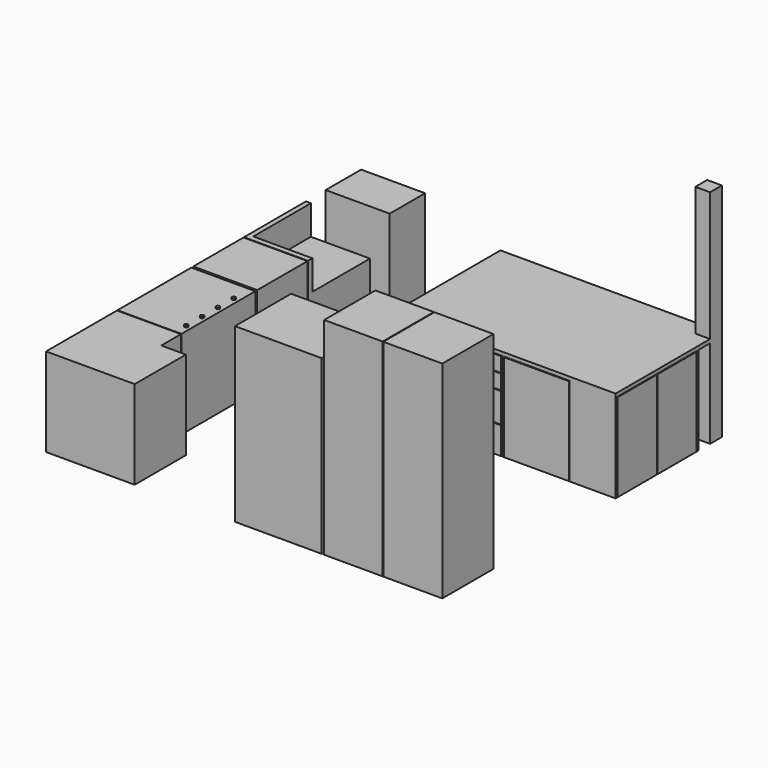
from build123d import *

# Parameters (mm, degrees)
F0_W      = 152.4
F0_H      = 152.4
F1_DEPTH  = 2286
F4_DEPTH  = 38.1
F7_DEPTH  = 914.4
F9_DEPTH  = 914.4
F11_DEPTH = 914.4
F13_DEPTH = 914.4
F14_W     = 19.05
F14_H     = 590.55
F15_DEPTH = 914.4
F16_W     = 19.05
F16_H     = 457.2
F17_DEPTH = 914.4
F18_W     = 508
F18_H     = 908.05
F19_DEPTH = 19.05
F20_W     = 501.65
F20_H     = 908.05
F21_DEPTH = 19.05
F22_W     = 622.3
F22_H     = 152.4
F23_DEPTH = 19.05
F22_H_2   = 304.8
F22_H_3   = 279.4
F24_W     = 406.4
F24_H     = 908.05
F25_DEPTH = 19.05
F26_W     = 666.75
F26_H     = 908.05
F27_DEPTH = 19.05
F29_W     = 609.6
F29_H     = 660.4
F30_DEPTH = 2133.6
F31_W     = 603.25
F31_H     = 660.4
F32_DEPTH = 2133.6
F33_W     = 895.35
F33_H     = 723.9
F34_DEPTH = 1778
F37_W     = 660.4
F37_H     = 800.1
F38_DEPTH = 914.4
F40_DEPTH = 914.4
F41_W     = 660.4
F41_H     = 952.5
F42_DEPTH = 914.4
F43_W     = 660.4
F43_H     = 457.2
F44_DEPTH = 914.4
F46_W     = 660.4
F46_H     = 647.7
F47_DEPTH = 914.4
F48_DEPTH = 12.7
F49_W     = 609.6
F49_H     = 762
F50_DEPTH = 304.8


with BuildPart() as f1:
    # F0 (on Top) → F1 (new body)
    with BuildSketch(Plane.XY):
        with Locations((-76.2, -76.2)):
            Rectangle(F0_W, F0_H)
    extrude(amount=F1_DEPTH)

    # F3 (on offset) → F4 (join)
    with BuildSketch(Plane(origin=(0, 0, 914.4), x_dir=(1, 0, 0), z_dir=(0, 0, -1))):
        Polygon((-152.4, 152.4), (0, 152.4), (0, 1371.6), (-2286, 1371.6), (-2286, 0), (-152.4, 0), align=None)
    extrude(amount=-F4_DEPTH)

    # F6 (on face) → F7 (join, through all)
    with BuildSketch(Plane(origin=(0, 0, 914.4), x_dir=(1, 0, 0), z_dir=(0, 0, -1))):
        Polygon((0, 1352.55), (0, 1371.6), (-457.2, 1371.6), (-457.2, 304.8), (0, 304.8), (0, 323.85), (-438.15, 323.85), (-438.15, 1352.55), align=None)
    extrude(amount=F7_DEPTH)

    # F8 (on face) → F9 (join, through all)
    with BuildSketch(Plane(origin=(0, 0, 914.4), x_dir=(1, 0, 0), z_dir=(0, 0, -1))):
        Polygon((-2266.95, 1371.6), (-2286, 1371.6), (-2286, 762), (-1828.8, 762), (-1828.8, 1371.6), (-1847.85, 1371.6), (-1847.85, 781.05), (-2266.95, 781.05), align=None)
    extrude(amount=F9_DEPTH)

    # F10 (on face) → F11 (join, through all)
    with BuildSketch(Plane(origin=(0, 0, 914.4), x_dir=(1, 0, 0), z_dir=(0, 0, -1))):
        Polygon((-1828.8, 762), (-2286, 762), (-2286, 742.95), (-1847.85, 742.95), (-1847.85, 323.85), (-2286, 323.85), (-2286, 304.8), (-1828.8, 304.8), align=None)
    extrude(amount=F11_DEPTH)

    # F12 (on face) → F13 (join, through all)
    with BuildSketch(Plane(origin=(0, 0, 914.4), x_dir=(1, 0, 0), z_dir=(0, 0, -1))):
        Polygon((-1809.75, 1371.6), (-1828.8, 1371.6), (-1828.8, 762), (-457.2, 762), (-457.2, 1371.6), (-476.25, 1371.6), (-476.25, 781.05), (-1809.75, 781.05), align=None)
    extrude(amount=F13_DEPTH)

    # F14 (on face) → F15 (join, through all)
    with BuildSketch(Plane(origin=(0, 0, 914.4), x_dir=(1, 0, 0), z_dir=(0, 0, -1))):
        with Locations((-1165.225, 1076.325)):
            Rectangle(F14_W, F14_H)
    extrude(amount=F15_DEPTH)

    # F16 (on face) → F17 (join, through all)
    with BuildSketch(Plane(origin=(0, 0, 914.4), x_dir=(1, 0, 0), z_dir=(0, 0, -1))):
        with Locations((-1143, 533.4)):
            Rectangle(F16_W, F16_H)
    extrude(amount=F17_DEPTH)


with BuildPart() as f19:
    # F18 (on face) → F19 (new body)
    with BuildSketch(Plane.YZ):
        with Locations((-1092.2, 454.025)):
            Rectangle(F18_W, F18_H)
    extrude(amount=-F19_DEPTH)


with BuildPart() as f21:
    # F20 (on face) → F21 (new body)
    with BuildSketch(Plane.YZ):
        with Locations((-581.025, 454.025)):
            Rectangle(F20_W, F20_H)
    extrude(amount=-F21_DEPTH)


with BuildPart() as f23:
    # F22 (on face) → F23 (new body)
    with BuildSketch(Plane.XZ.offset(1371.6)):
        with Locations((-1492.25, 831.85)):
            Rectangle(F22_W, F22_H)
    extrude(amount=-F23_DEPTH)


with BuildPart() as f23b:
    # F22 (on face) → F23, piece 2 (new body)
    with BuildSketch(Plane.XZ.offset(1371.6)):
        with Locations((-1492.25, 673.1)):
            Rectangle(F22_W, F22_H)
    extrude(amount=-F23_DEPTH)


with BuildPart() as f23c:
    # F22 (on face) → F23, piece 3 (new body)
    with BuildSketch(Plane.XZ.offset(1371.6)):
        with Locations((-1492.25, 438.15)):
            Rectangle(F22_W, F22_H_2)
    extrude(amount=-F23_DEPTH)


with BuildPart() as f23d:
    # F22 (on face) → F23, piece 4 (new body)
    with BuildSketch(Plane.XZ.offset(1371.6)):
        with Locations((-1492.25, 139.7)):
            Rectangle(F22_W, F22_H_3)
    extrude(amount=-F23_DEPTH)


with BuildPart() as f25:
    # F24 (on face) → F25 (new body)
    with BuildSketch(Plane.XZ.offset(1371.6)):
        with Locations((-2057.4, 454.025)):
            Rectangle(F24_W, F24_H)
    extrude(amount=-F25_DEPTH)


with BuildPart() as f27:
    # F26 (on face) → F27 (new body)
    with BuildSketch(Plane.XZ.offset(1371.6)):
        with Locations((-815.975, 454.025)):
            Rectangle(F26_W, F26_H)
    extrude(amount=-F27_DEPTH)


with BuildPart() as f30:
    # F29 (on face) → F30 (new body)
    with BuildSketch(Plane(origin=(0, 0, 0), x_dir=(1, 0, 0), z_dir=(0, 0, -1))):
        with Locations((-304.8, 3276.6)):
            Rectangle(F29_W, F29_H)
    extrude(amount=-F30_DEPTH)


with BuildPart() as f32:
    # F31 (on face) → F32 (new body, through all)
    with BuildSketch(Plane(origin=(0, 0, 0), x_dir=(1, 0, 0), z_dir=(0, 0, -1))):
        with Locations((-917.575, 3276.6)):
            Rectangle(F31_W, F31_H)
    extrude(amount=-F32_DEPTH)


with BuildPart() as f34:
    # F33 (on face) → F34 (new body)
    with BuildSketch(Plane(origin=(0, 0, 0), x_dir=(1, 0, 0), z_dir=(0, 0, -1))):
        with Locations((-1692.275, 3244.85)):
            Rectangle(F33_W, F33_H)
    extrude(amount=-F34_DEPTH)


with BuildPart() as f38:
    # F37 (on face) → F38 (new body)
    with BuildSketch(Plane(origin=(0, 0, 0), x_dir=(1, 0, 0), z_dir=(0, 0, -1))):
        with Locations((-3759.2, 654.05)):
            Rectangle(F37_W, F37_H)
    extrude(amount=-F38_DEPTH)

    # F49 (on face) → F50 (cut)
    with BuildSketch(Plane.XY.offset(914.4)):
        with Locations((-3733.8, -615.95)):
            Rectangle(F49_W, F49_H)
    extrude(amount=-F50_DEPTH, mode=Mode.SUBTRACT)


with BuildPart() as f40:
    # F39 (on face) → F40 (new body)
    with BuildSketch(Plane(origin=(0, 0, 0), x_dir=(1, 0, 0), z_dir=(0, 0, -1))):
        Polygon((-3175, 2946.4), (-3175, 3606.8), (-4089.4, 3606.8), (-4089.4, 2692.4), (-3429, 2692.4), (-3429, 2946.4), align=None)
    extrude(amount=-F40_DEPTH)


with BuildPart() as f42:
    # F41 (on face) → F42 (new body)
    with BuildSketch(Plane(origin=(0, 0, 0), x_dir=(1, 0, 0), z_dir=(0, 0, -1))):
        with Locations((-3759.2, 2209.8)):
            Rectangle(F41_W, F41_H)
    extrude(amount=-F42_DEPTH)

    # F45 (on face) → F48 (join)
    with BuildSketch(Plane.XY.offset(914.4)):
        with BuildLine():
            ThreePointArc((-3479.8, -2540), (-3498.85, -2559.05), (-3479.8, -2578.1))
            Line((-3479.8, -2578.1), (-3479.8, -2540))
        make_face()
        with BuildLine():
            ThreePointArc((-3479.8, -1930.4), (-3498.85, -1949.45), (-3479.8, -1968.5))
            Line((-3479.8, -1968.5), (-3479.8, -1930.4))
        make_face()
        with BuildLine():
            Line((-3479.8, -1930.4), (-3479.8, -1968.5))
            ThreePointArc((-3479.8, -1968.5), (-3466.3296158184, -1962.9203841816), (-3460.75, -1949.45))
            ThreePointArc((-3460.75, -1949.45), (-3466.3296158184, -1935.9796158184), (-3479.8, -1930.4))
        make_face()
        with BuildLine():
            ThreePointArc((-3479.8, -2133.6), (-3498.85, -2152.65), (-3479.8, -2171.7))
            Line((-3479.8, -2171.7), (-3479.8, -2133.6))
        make_face()
        with BuildLine():
            Line((-3479.8, -2133.6), (-3479.8, -2171.7))
            ThreePointArc((-3479.8, -2171.7), (-3466.3296158184, -2166.1203841816), (-3460.75, -2152.65))
            ThreePointArc((-3460.75, -2152.65), (-3466.3296158184, -2139.1796158184), (-3479.8, -2133.6))
        make_face()
        with BuildLine():
            ThreePointArc((-3479.8, -2336.8), (-3498.85, -2355.85), (-3479.8, -2374.9))
            Line((-3479.8, -2374.9), (-3479.8, -2336.8))
        make_face()
        with BuildLine():
            Line((-3479.8, -2336.8), (-3479.8, -2374.9))
            ThreePointArc((-3479.8, -2374.9), (-3466.3296158184, -2369.3203841816), (-3460.75, -2355.85))
            ThreePointArc((-3460.75, -2355.85), (-3466.3296158184, -2342.3796158184), (-3479.8, -2336.8))
        make_face()
        with BuildLine():
            Line((-3479.8, -2540), (-3479.8, -2578.1))
            ThreePointArc((-3479.8, -2578.1), (-3466.3296158184, -2572.5203841816), (-3460.75, -2559.05))
            ThreePointArc((-3460.75, -2559.05), (-3466.3296158184, -2545.5796158184), (-3479.8, -2540))
        make_face()
    extrude(amount=F48_DEPTH)


with BuildPart() as f44:
    # F43 (on face) → F44 (new body)
    with BuildSketch(Plane(origin=(0, 0, 0), x_dir=(1, 0, 0), z_dir=(0, 0, -1))):
        with Locations((-3759.2, -228.6)):
            Rectangle(F43_W, F43_H)
    extrude(amount=-F44_DEPTH)


with BuildPart() as f47:
    # F46 (on face) → F47 (new body)
    with BuildSketch(Plane(origin=(0, 0, 0), x_dir=(1, 0, 0), z_dir=(0, 0, -1))):
        with Locations((-3759.2, 1384.3)):
            Rectangle(F46_W, F46_H)
    extrude(amount=-F47_DEPTH)


solid = Compound([f1.part, f19.part, f21.part, f23.part, f23b.part, f23c.part, f23d.part, f25.part, f27.part, f30.part, f32.part, f34.part, f38.part, f40.part, f42.part, f44.part, f47.part])
